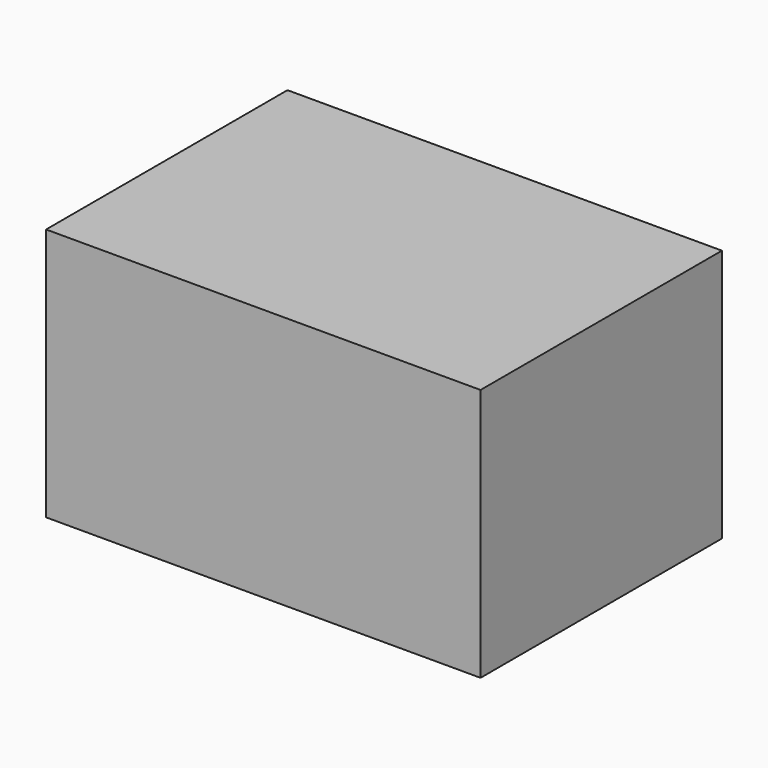
from build123d import *

# Parameters (mm, degrees)
F0_W     = 36
F0_H     = 20.999999
F1_DEPTH = 12.5


with BuildPart() as f1:
    # F0 (on Front) → F1 (new body, symmetric)
    with BuildSketch(Plane.XZ):
        with Locations((-27.683072, 15.933267)):
            Rectangle(F0_W, F0_H)
        with Locations((-27.683072, 15.933267)):
            Rectangle(F0_W, F0_H)
    extrude(amount=F1_DEPTH, both=True)


solid = f1.part
